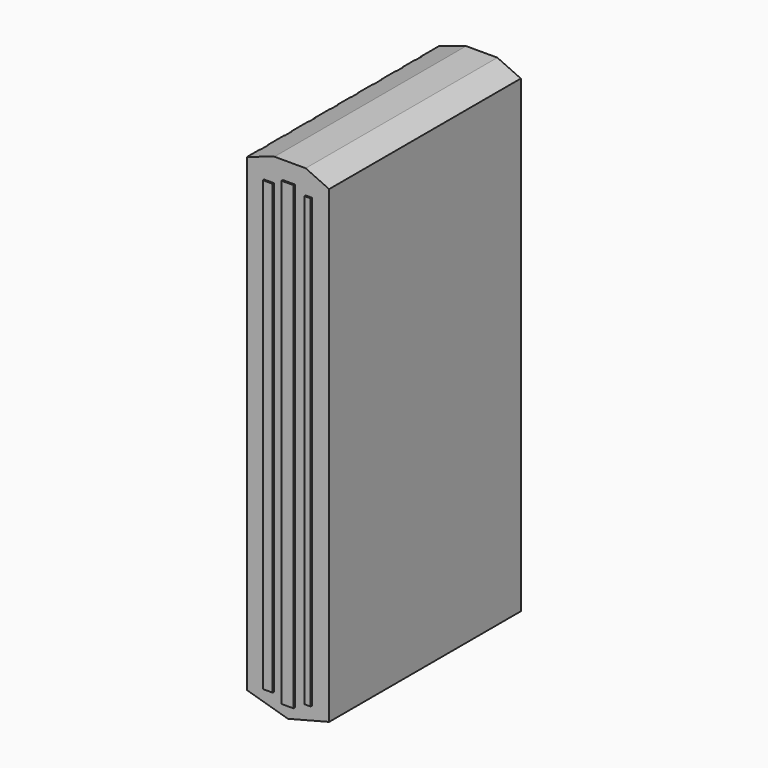
from build123d import *

# Parameters (mm, degrees)
PAD001_DEPTH    = 1500
SKETCH036_W     = 3231.34552
SKETCH036_H     = 42.51773
SKETCH036_W_2   = 3239.849183
SKETCH036_H_2   = 51.021179
SKETCH036_W_3   = 3282.367005
SKETCH036_H_3   = 68.028198
SKETCH036_W_4   = 3273.863343
SKETCH036_H_4   = 51.021302
SKETCH036_W_5   = 3307.877503
SKETCH036_H_5   = 51.021241
SKETCH036_W_6   = 3341.891541
SKETCH036_H_6   = 42.517212
SKETCH036_W_7   = 3333.388123
SKETCH036_H_7   = 59.524658
SKETCH036_W_8   = 3350.395264
SKETCH036_H_8   = 59.524902
POCKET009_DEPTH = 5
SKETCH037_W     = 61.453369
SKETCH037_H     = 2804.732117
SKETCH037_W_2   = 74.944336
SKETCH037_H_2   = 2883.974792
SKETCH037_W_3   = 38.695313
SKETCH037_H_3   = 2800.634216
PAD026_DEPTH    = 10


with BuildPart() as part:
    # Sketch001 → Pad001 (new body)
    with BuildSketch(Plane.XZ):
        Polygon((-1192.529541, 3875.418457), (-1192.529541, 934.833008), (-937.547852, 860.65448), (-679.521484, 927.246033), (-679.521484, 3864.018066), (-826.355956, 3931.345459), (-1021.937194, 3931.345459), align=None)
    extrude(amount=PAD001_DEPTH)

    # Sketch036 (on Face1 of Pad001) → Pocket009 (cut)
    with BuildSketch(Plane(origin=(-1192.529541, 0, 0), x_dir=(0, 0, -1), z_dir=(-1, 0, 0))):
        with Locations((-2447.934174, 164.156662)):
            Rectangle(SKETCH036_W, SKETCH036_H)
        with Locations((-2435.178924, 312.96878)):
            Rectangle(SKETCH036_W_2, SKETCH036_H_2)
        with Locations((-2439.430755, 483.039612)):
            Rectangle(SKETCH036_W_3, SKETCH036_H_3)
        with Locations((-2435.178924, 661.613922)):
            Rectangle(SKETCH036_W_4, SKETCH036_H_4)
        with Locations((-2435.178924, 823.181274)):
            Rectangle(SKETCH036_W_5, SKETCH036_H_5)
        with Locations((-2426.675324, 997.503723)):
            Rectangle(SKETCH036_W_6, SKETCH036_H_6)
        with Locations((-2422.423614, 1184.581909)):
            Rectangle(SKETCH036_W_7, SKETCH036_H_7)
        with Locations((-2396.912964, 1371.659912)):
            Rectangle(SKETCH036_W_8, SKETCH036_H_8)
    extrude(amount=-POCKET009_DEPTH, mode=Mode.SUBTRACT)

    # Sketch037 (on Face10 of Pocket009) → Pad026 (join)
    with BuildSketch(Plane.XZ.offset(1500)):
        with Locations((-1055.759887, 2382.429108)):
            Rectangle(SKETCH037_W, SKETCH037_H)
        with Locations((-932.289185, 2377.905182)):
            Rectangle(SKETCH037_W_2, SKETCH037_H_2)
        with Locations((-806.794433, 2381.343292)):
            Rectangle(SKETCH037_W_3, SKETCH037_H_3)
    extrude(amount=PAD026_DEPTH)


with BuildPart() as part_1:
    # Body001 placement: moved
    add(part.part.moved(Location((-548, -280, 19))))


solid = part_1.part
